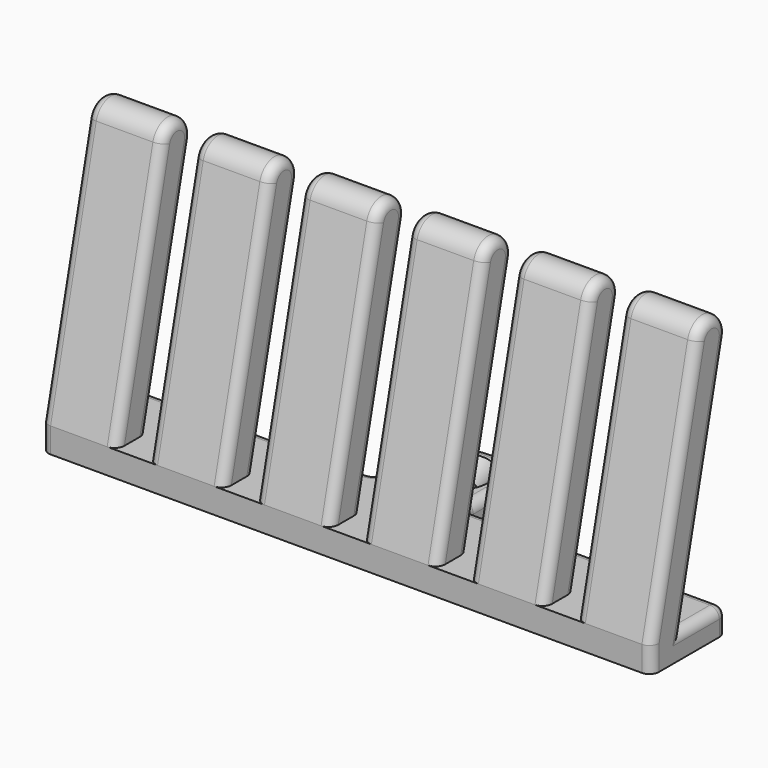
from build123d import *

# Parameters (mm, degrees)
PAD006_DEPTH = 12
FILLET005_R  = 1.5
PAD005_DEPTH = 12
FILLET004_R  = 1.5
PAD004_DEPTH = 12
FILLET003_R  = 1.5
PAD003_DEPTH = 12
FILLET002_R  = 1.5
PAD002_DEPTH = 12
FILLET001_R  = 1.5
PAD001_DEPTH = 12
FILLET_R     = 1.5
SKETCH_R     = 2.5
PAD_DEPTH    = 4
CHAMFER_SIZE = 2.5
FILLET006_R  = 1.5


with BuildPart() as hook005:
    # Sketch006 → Pad006 (new body)
    with BuildSketch(Plane.YZ):
        with BuildLine():
            Line((0, 4), (9.078286, 42.95619))
            ThreePointArc((14.921714, 41.594447), (12.680871, 45.197033), (9.078286, 42.95619))
            Line((6.160767, 4), (14.921714, 41.594447))
            Line((6.160767, 4), (0, 4))
        make_face()
    extrude(amount=PAD006_DEPTH)

    # Fillet005
    fillet005_edges = [hook005.edges().sort_by_distance(p)[0] for p in [
        (0, 10.541241, 22.797223),
        (12, 4.539143, 23.478095),
    ]]
    fillet(fillet005_edges, radius=FILLET005_R)


with BuildPart() as hook005_1:
    # Body006 placement: moved
    add(hook005.part.moved(Location((85, 0, 0))))


with BuildPart() as hook004:
    # Sketch005 → Pad005 (new body)
    with BuildSketch(Plane.YZ):
        with BuildLine():
            Line((0, 4), (9.078286, 42.95619))
            ThreePointArc((14.921714, 41.594447), (12.680871, 45.197033), (9.078286, 42.95619))
            Line((6.160767, 4), (14.921714, 41.594447))
            Line((6.160767, 4), (0, 4))
        make_face()
    extrude(amount=PAD005_DEPTH)

    # Fillet004
    fillet004_edges = [hook004.edges().sort_by_distance(p)[0] for p in [
        (0, 10.541241, 22.797223),
        (12, 4.539143, 23.478095),
    ]]
    fillet(fillet004_edges, radius=FILLET004_R)


with BuildPart() as hook004_1:
    # Body005 placement: moved
    add(hook004.part.moved(Location((68, 0, 0))))


with BuildPart() as hook003:
    # Sketch004 → Pad004 (new body)
    with BuildSketch(Plane.YZ):
        with BuildLine():
            Line((0, 4), (9.078286, 42.95619))
            ThreePointArc((14.921714, 41.594447), (12.680871, 45.197033), (9.078286, 42.95619))
            Line((6.160767, 4), (14.921714, 41.594447))
            Line((6.160767, 4), (0, 4))
        make_face()
    extrude(amount=PAD004_DEPTH)

    # Fillet003
    fillet003_edges = [hook003.edges().sort_by_distance(p)[0] for p in [
        (0, 10.541241, 22.797223),
        (12, 4.539143, 23.478095),
    ]]
    fillet(fillet003_edges, radius=FILLET003_R)


with BuildPart() as hook003_1:
    # Body004 placement: moved
    add(hook003.part.moved(Location((51, 0, 0))))


with BuildPart() as hook002:
    # Sketch003 → Pad003 (new body)
    with BuildSketch(Plane.YZ):
        with BuildLine():
            Line((0, 4), (9.078286, 42.95619))
            ThreePointArc((14.921714, 41.594447), (12.680871, 45.197033), (9.078286, 42.95619))
            Line((6.160767, 4), (14.921714, 41.594447))
            Line((6.160767, 4), (0, 4))
        make_face()
    extrude(amount=PAD003_DEPTH)

    # Fillet002
    fillet002_edges = [hook002.edges().sort_by_distance(p)[0] for p in [
        (0, 10.541241, 22.797223),
        (12, 4.539143, 23.478095),
    ]]
    fillet(fillet002_edges, radius=FILLET002_R)


with BuildPart() as hook002_1:
    # Body003 placement: moved
    add(hook002.part.moved(Location((34, 0, 0))))


with BuildPart() as hook001:
    # Sketch002 → Pad002 (new body)
    with BuildSketch(Plane.YZ):
        with BuildLine():
            Line((0, 4), (9.078286, 42.95619))
            ThreePointArc((14.921714, 41.594447), (12.680871, 45.197033), (9.078286, 42.95619))
            Line((6.160767, 4), (14.921714, 41.594447))
            Line((6.160767, 4), (0, 4))
        make_face()
    extrude(amount=PAD002_DEPTH)

    # Fillet001
    fillet001_edges = [hook001.edges().sort_by_distance(p)[0] for p in [
        (0, 10.541241, 22.797223),
        (12, 4.539143, 23.478095),
    ]]
    fillet(fillet001_edges, radius=FILLET001_R)


with BuildPart() as hook001_1:
    # Body002 placement: moved
    add(hook001.part.moved(Location((17, 0, 0))))


with BuildPart() as hook:
    # Sketch001 → Pad001 (new body)
    with BuildSketch(Plane.YZ):
        with BuildLine():
            Line((0, 4), (9.078286, 42.95619))
            ThreePointArc((14.921714, 41.594447), (12.680871, 45.197033), (9.078286, 42.95619))
            Line((6.160767, 4), (14.921714, 41.594447))
            Line((6.160767, 4), (0, 4))
        make_face()
    extrude(amount=PAD001_DEPTH)

    # Fillet
    fillet_edges = [hook.edges().sort_by_distance(p)[0] for p in [
        (0, 10.541241, 22.797223),
        (12, 4.539143, 23.478095),
    ]]
    fillet(fillet_edges, radius=FILLET_R)


with BuildPart() as frame:
    # Sketch → Pad (new body)
    with BuildSketch(Plane.XY):
        with BuildLine():
            Line((0, 13.5), (0, 1.5))
            ThreePointArc((0, 1.5), (0.43934, 0.43934), (1.5, 0))
            Line((1.5, 0), (95.5, 0))
            ThreePointArc((95.5, 0), (96.56066, 0.43934), (97, 1.5))
            Line((97, 1.5), (97, 13.5))
            ThreePointArc((97, 13.5), (96.56066, 14.56066), (95.5, 15))
            Line((95.5, 15), (57, 15))
            ThreePointArc((55.5, 16.5), (55.93934, 15.43934), (57, 15))
            Line((55.5, 16.5), (55.5, 22))
            ThreePointArc((55.5, 22), (48.5, 29), (41.5, 22))
            Line((41.5, 22), (41.5, 16.5))
            ThreePointArc((40, 15), (41.06066, 15.43934), (41.5, 16.5))
            Line((40, 15), (1.5, 15))
            ThreePointArc((1.5, 15), (0.43934, 14.56066), (0, 13.5))
        make_face()
        with Locations((48.5, 22)):
            Circle(SKETCH_R, mode=Mode.SUBTRACT)
    extrude(amount=PAD_DEPTH)

    # Chamfer
    chamfer_edges = [frame.edges().sort_by_distance(p)[0] for p in [
        (46, 22, 4),
    ]]
    chamfer(chamfer_edges, length=CHAMFER_SIZE)

    # Boolean: union hook005, hook004, hook003, hook002, hook001, hook
    add(hook005_1.part)
    add(hook004_1.part)
    add(hook003_1.part)
    add(hook002_1.part)
    add(hook001_1.part)
    add(hook.part)

    # Fillet006
    fillet006_edges = [frame.edges().sort_by_distance(p)[0] for p in [
        (20.75, 15, 4),
    ]]
    fillet(fillet006_edges, radius=FILLET006_R)


solid = frame.part
